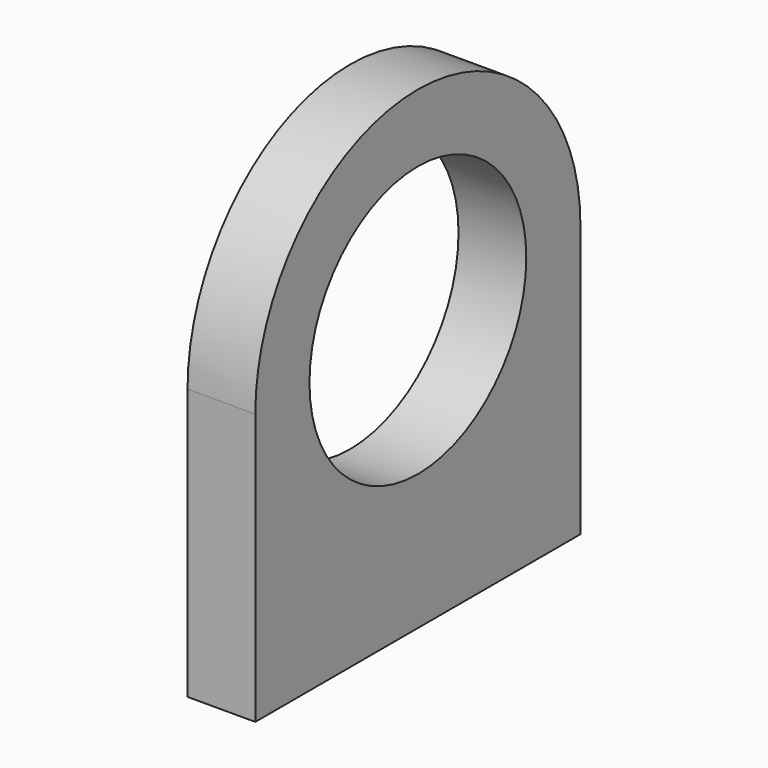
from build123d import *

# Parameters (mm, degrees)
F1_DEPTH = 25.4


with BuildPart() as f1:
    # F0 (on Right) → F1 (new body)
    with BuildSketch(Plane.YZ):
        with BuildLine():
            Line((-142.4072717976, -178.2932008028), (-142.4072717976, -279.8932008028))
            Line((-142.4072717976, -279.8932008028), (9.9927282024, -279.8932008028))
            Line((9.9927282024, -279.8932008028), (9.9927282024, -178.2932008028))
            ThreePointArc((9.9927282024, -178.2932008028), (-66.2072717976, -254.4932008028), (-142.4072717976, -178.2932008028))
        make_face()
        with BuildLine():
            ThreePointArc((9.9927282024, -178.2932008028), (-66.2072717976, -102.0932008028), (-142.4072717976, -178.2932008028))
            Line((-142.4072717976, -178.2932008028), (-117.0072717976, -178.2932008028))
            ThreePointArc((-117.0072717976, -178.2932008028), (-66.2072717976, -127.4932008028), (-15.4072717976, -178.2932008028))
            Line((-15.4072717976, -178.2932008028), (9.9927282024, -178.2932008028))
        make_face()
        with BuildLine():
            Line((-117.0072717976, -178.2932008028), (-142.4072717976, -178.2932008028))
            ThreePointArc((-142.4072717976, -178.2932008028), (-66.2072717976, -254.4932008028), (9.9927282024, -178.2932008028))
            Line((9.9927282024, -178.2932008028), (-15.4072717976, -178.2932008028))
            ThreePointArc((-15.4072717976, -178.2932008028), (-66.2072717976, -229.0932008028), (-117.0072717976, -178.2932008028))
        make_face()
    extrude(amount=F1_DEPTH)


solid = f1.part
